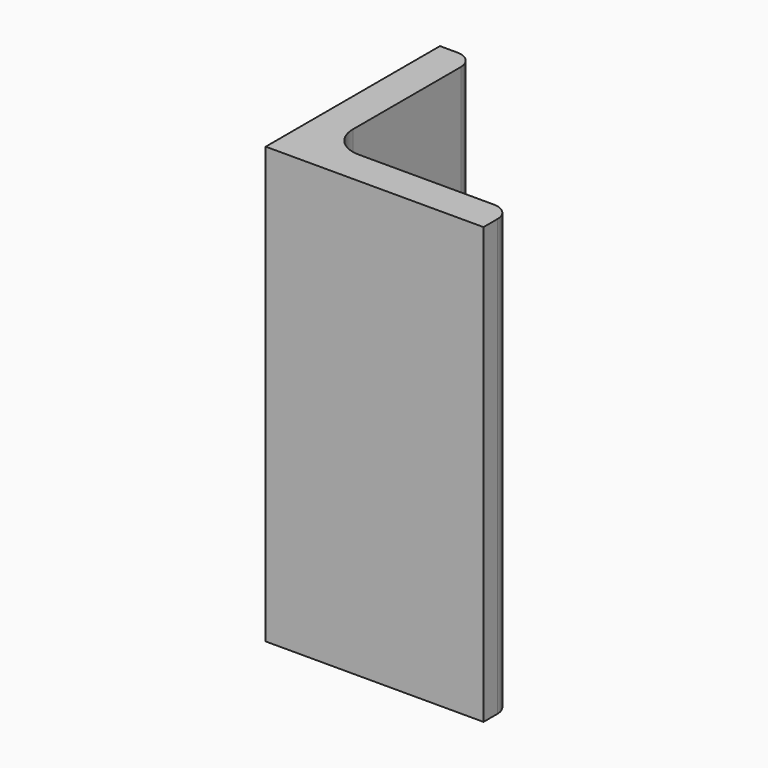
from build123d import *

# Parameters (mm, degrees)
EXTRUDE_DEPTH = 50


with BuildPart() as part:
    # Sketch → Extrude (new body)
    with BuildSketch(Plane.XY):
        with BuildLine():
            Line((0, 0), (25, 0))
            Line((25, 0), (25, 2))
            ThreePointArc((25, 2), (24.414214, 3.414214), (23, 4))
            Line((23, 4), (7.5, 4))
            ThreePointArc((4, 7.5), (5.025126, 5.025126), (7.5, 4))
            Line((4, 23), (4, 7.5))
            ThreePointArc((4, 23), (3.414214, 24.414214), (2, 25))
            Line((0, 25), (2, 25))
            Line((0, 0), (0, 25))
        make_face()
    extrude(amount=EXTRUDE_DEPTH)


solid = part.part
